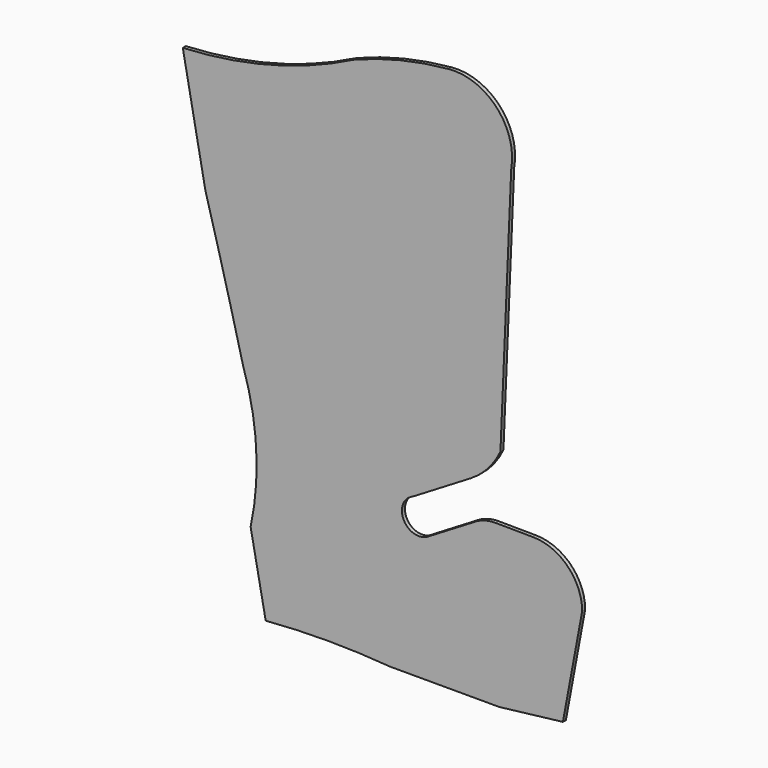
from build123d import *

# Parameters (mm, degrees)
F1_DEPTH = 3.175


with BuildPart() as f1:
    # F0 (on Front) → F1 (new body)
    with BuildSketch(Plane.XZ):
        with BuildLine():
            ThreePointArc((0, 0), (52.3875, 2.122088), (104.775, 0))
            Line((104.775, 0), (196.85, 0))
            Line((196.85, 0), (250.450169, 6.35))
            Line((250.450169, 6.35), (266.7, 93.752248))
            ThreePointArc((266.7, 93.752248), (254.606369, 123.015176), (225.425, 135.304302))
            Line((225.425, 135.304302), (193.676129, 135.572008))
            ThreePointArc((193.676129, 135.572008), (183.67686, 134.106445), (174.592099, 129.679214))
            Line((174.592099, 129.679214), (136.525, 106.729302))
            ThreePointArc((136.525, 106.729302), (116.281419, 112.63499), (123.825, 132.32697))
            Line((123.825, 132.32697), (172.768413, 161.834))
            ThreePointArc((172.768413, 161.834), (187.378124, 173.917819), (197.811248, 189.748556))
            Line((197.811248, 189.748556), (206.899133, 402.279344))
            ThreePointArc((206.899133, 402.279344), (194.817851, 443.836045), (154.447494, 459.429344))
            ThreePointArc((154.447494, 459.429344), (113.757659, 452.76355), (74.429211, 440.379344))
            ThreePointArc((74.429211, 440.379344), (4.310649, 413.675943), (-69.85, 402.279344))
            Line((-69.85, 402.279344), (-50.8, 302.48126))
            ThreePointArc((-50.8, 302.48126), (-34.53352, 242.809248), (-19.05, 182.929302))
            ThreePointArc((-19.05, 182.929302), (-7.960813, 124.619596), (-12.7, 65.454302))
            Line((-12.7, 65.454302), (0, 0))
        make_face()
    extrude(amount=F1_DEPTH)


solid = f1.part
